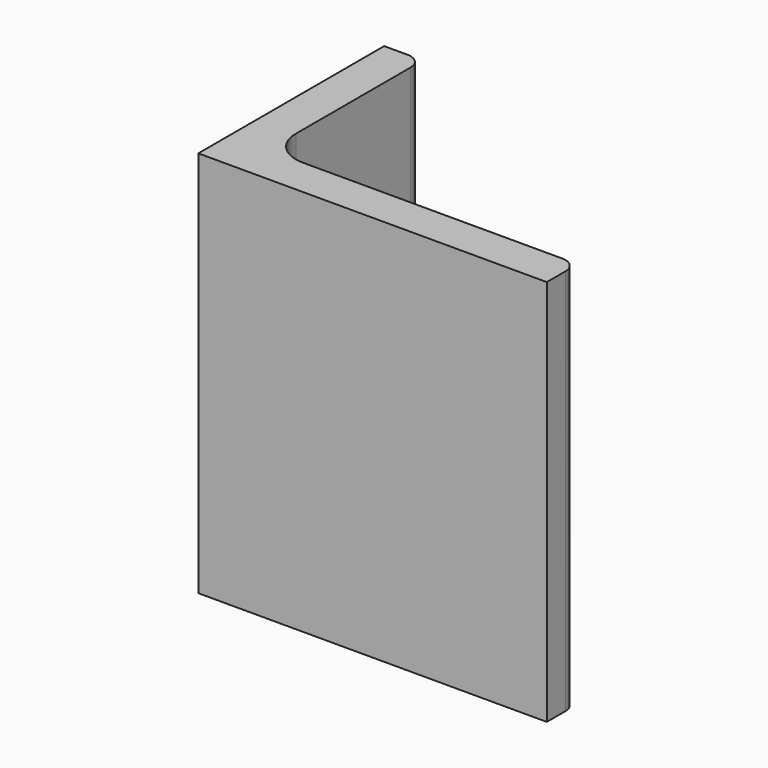
from build123d import *

# Parameters (mm, degrees)
EXTRUDE_DEPTH = 50


with BuildPart() as part:
    # Sketch → Extrude (new body)
    with BuildSketch(Plane.XY):
        with BuildLine():
            Line((0, 0), (45, 0))
            Line((45, 0), (45, 3))
            ThreePointArc((45, 3), (44.414214, 4.414214), (43, 5))
            Line((43, 5), (9.5, 5))
            ThreePointArc((5, 9.5), (6.318019, 6.318019), (9.5, 5))
            Line((5, 28), (5, 9.5))
            ThreePointArc((5, 28), (4.414214, 29.414214), (3, 30))
            Line((0, 30), (3, 30))
            Line((0, 0), (0, 30))
        make_face()
    extrude(amount=EXTRUDE_DEPTH)


solid = part.part
